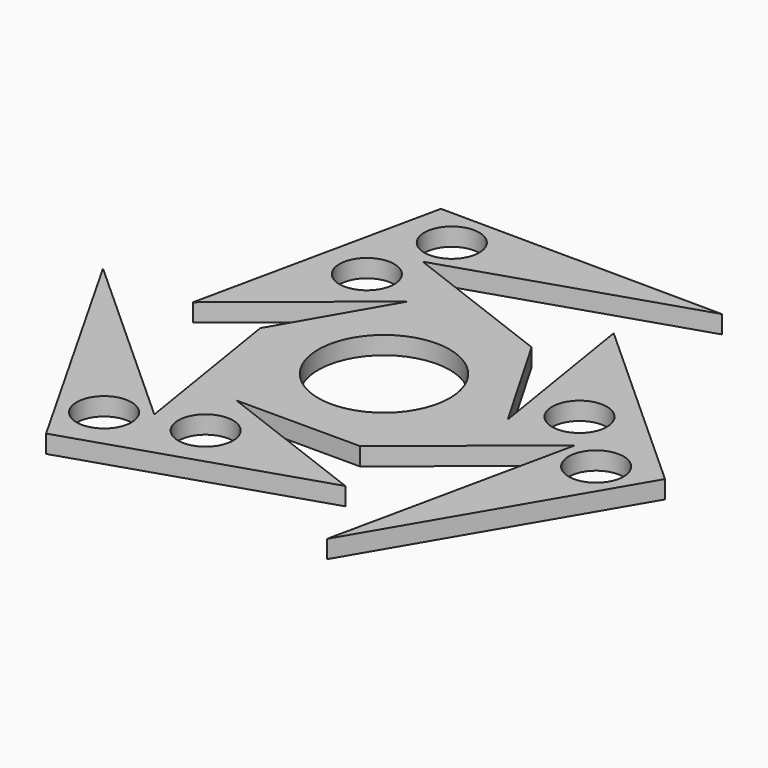
from build123d import *

# Parameters (mm, degrees)
F0_R     = 4.58
F0_R_2   = 11
F1_DEPTH = 3


with BuildPart() as f1:
    # F0 (on Top) → F1 (new body)
    with BuildSketch(Plane.XY):
        Polygon((-10.3433931154, -17.9152823985), (10.3433931154, -17.9152823985), (32.1102169209, -0.2177119583), (23.3435776075, -41.0728769962), (47.241943689, -0.3203072748), (16.2436525471, 27.6994075954), (20.6867862307, 0), (10.3433931154, 17.9152823985), (-15.8665643739, 27.9171195537), (23.8983660815, 40.7525697215), (-23.3435776075, 41.0728769962), (-32.1102169209, 0.2177119583), (-10.3433931154, 17.9152823985), (-20.6867862307, 0), (-16.2436525471, -27.6994075954), (-47.241943689, 0.3203072748), (-23.8983660815, -40.7525697215), (15.8665643739, -27.9171195537), align=None)
        with Locations((-21.741848439, -31.328804791)):
            Circle(F0_R, mode=Mode.SUBTRACT)
        with Locations((-8.1714619327, -27.0660405942)):
            Circle(F0_R, mode=Mode.SUBTRACT)
        Circle(F0_R_2, mode=Mode.SUBTRACT)
        with Locations((38.0024650387, -3.1645906779)):
            Circle(F0_R, mode=Mode.SUBTRACT)
        with Locations((-19.3541477681, 20.6097139168)):
            Circle(F0_R, mode=Mode.SUBTRACT)
        with Locations((-16.2606165997, 34.4933954689)):
            Circle(F0_R, mode=Mode.SUBTRACT)
        with Locations((27.5256097008, 6.4563266774)):
            Circle(F0_R, mode=Mode.SUBTRACT)
    extrude(amount=F1_DEPTH)


solid = f1.part
